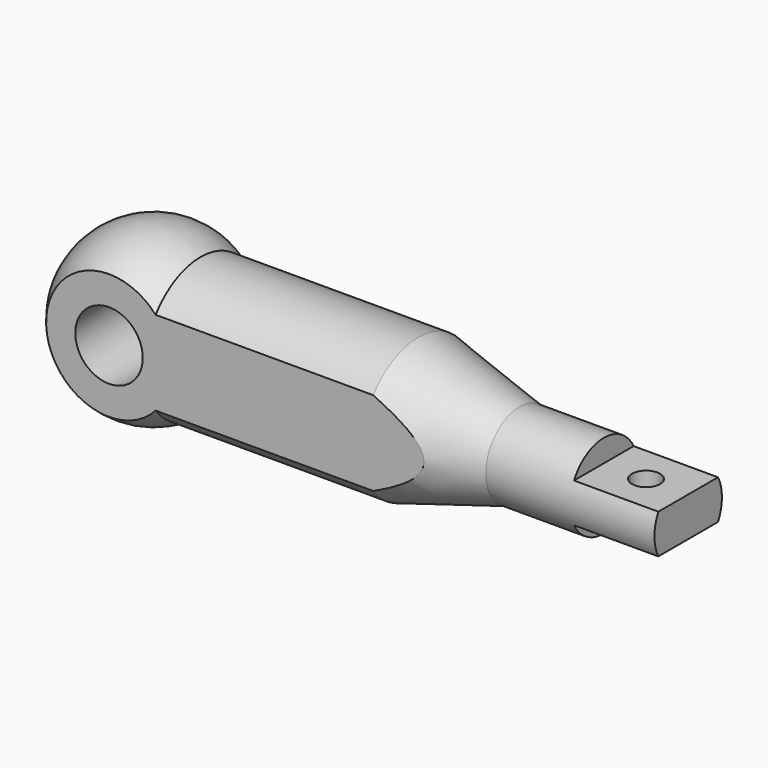
from build123d import *

# Parameters (mm, degrees)
F2_W          = 15
F2_H          = 4
F3_DEPTH      = 25
F3_DEPTH_BACK = 25
F5_DEPTH      = 95.001
F5_DEPTH_BACK = 25
F7_R          = 2.5
F8_DEPTH      = 25
F6_R          = 6
F9_DEPTH      = 25


with BuildPart() as f1:
    # F0 (on Front) → F1 (revolve)
    with BuildSketch(Plane.XZ):
        with BuildLine():
            ThreePointArc((8.2915619759, 12.5), (-7.0931858273, 13.2169101843), (-15, 0))
            Line((-15, 0), (95, 0))
            Line((95, 0), (95, 7.5))
            Line((95, 7.5), (65, 7.5))
            Line((65, 7.5), (47, 12.5))
            Line((47, 12.5), (8.2915619759, 12.5))
        make_face()
    revolve(axis=Axis((59.3843557738, 0, 0), (1, 0, 0)))

    # F2 (on Front) → F3 (cut, two sides)
    with BuildSketch(Plane.XZ) as f3_sk:
        with Locations((87.5, 5.5)):
            Rectangle(F2_W, F2_H)
        with Locations((87.5, -5.5)):
            Rectangle(F2_W, F2_H)
    extrude(amount=-F3_DEPTH, mode=Mode.SUBTRACT)
    extrude(f3_sk.sketch, amount=F3_DEPTH_BACK, mode=Mode.SUBTRACT)

    # F4 (on Right) → F5 (cut, two sides)
    with BuildSketch(Plane.YZ) as f5_sk:
        with BuildLine():
            Line((-10, -11.1803398875), (-10, 11.1803398875))
            ThreePointArc((-10, 11.1803398875), (-15, 0), (-10, -11.1803398875))
        make_face()
        with BuildLine():
            ThreePointArc((10, -11.1803398875), (15, 0), (10, 11.1803398875))
            Line((10, 11.1803398875), (10, -11.1803398875))
        make_face()
    extrude(amount=F5_DEPTH, mode=Mode.SUBTRACT)
    extrude(f5_sk.sketch, amount=-F5_DEPTH_BACK, mode=Mode.SUBTRACT)

    # F7 (on face) → F8 (cut)
    with BuildSketch(Plane.XY.offset(3.5)):
        with Locations((87.5, 0)):
            Circle(F7_R)
    extrude(amount=-F8_DEPTH, mode=Mode.SUBTRACT)

    # F6 (on face) → F9 (cut)
    with BuildSketch(Plane.XZ.offset(10)):
        Circle(F6_R)
    extrude(amount=-F9_DEPTH, mode=Mode.SUBTRACT)


solid = f1.part
